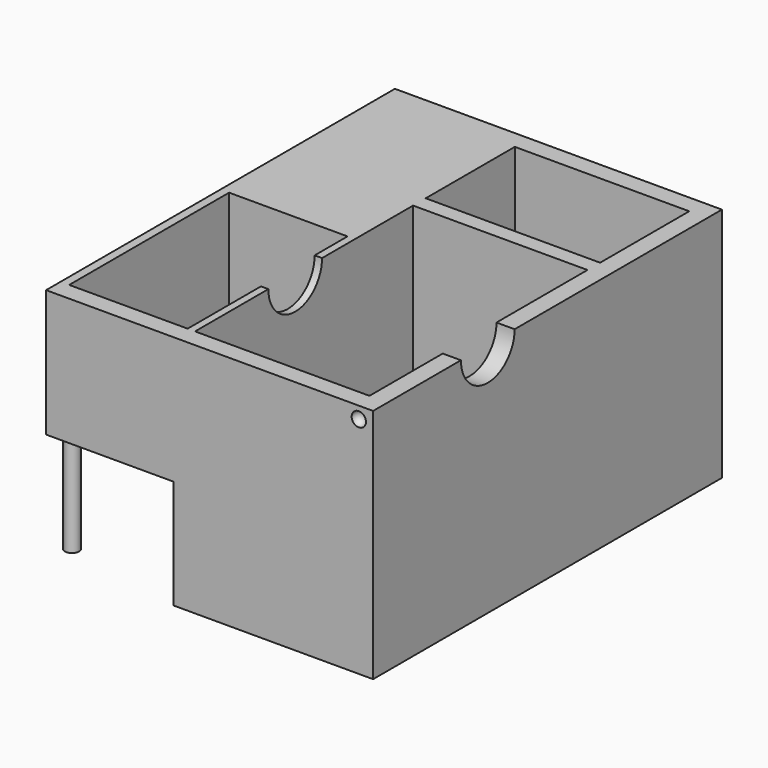
from build123d import *

# Parameters (mm, degrees)
F0_W      = 114.3
F0_H      = 152.4
F1_DEPTH  = 82.55
F2_W      = 60.96
F2_H      = 95.25
F3_DEPTH  = 76.2
F4_R      = 11.734963
F5_DEPTH  = 75.184
F6_W      = 60.96
F6_H      = 38.932147
F7_DEPTH  = 76.2
F8_W      = 88.9
F8_H      = 38.1
F9_DEPTH  = 44.45
F10_W     = 55.88
F10_H     = 33.02
F10_H_2   = 38.1
F11_DEPTH = 43.18
F12_R     = 2.5
F13_DEPTH = 33.02
F14_R     = 2.5
F14_R_2   = 2.3
F15_DEPTH = 2.54
F17_DEPTH = 45.72
F19_DEPTH = 45.72
F20_R     = 3.2
F21_DEPTH = 1.5875
F22_W     = 41.402
F22_H     = 69.85
F23_DEPTH = 40.64


with BuildPart() as f1:
    # F0 (on Top) → F1 (new body)
    with BuildSketch(Plane.XY):
        with Locations((-57.15, 76.2)):
            Rectangle(F0_W, F0_H)
    extrude(amount=-F1_DEPTH)

    # F2 (on face) → F3 (cut)
    with BuildSketch(Plane.XY):
        with Locations((-36.83, 53.975)):
            Rectangle(F2_W, F2_H)
    extrude(amount=-F3_DEPTH, mode=Mode.SUBTRACT)

    # F4 (on face) → F5 (cut)
    with BuildSketch(Plane.YZ):
        with Locations((50.100744, 0)):
            Circle(F4_R)
    extrude(amount=-F5_DEPTH, mode=Mode.SUBTRACT)

    # F6 (on face) → F7 (cut)
    with BuildSketch(Plane.XY):
        with Locations((-36.83, 126.583926)):
            Rectangle(F6_W, F6_H)
    extrude(amount=-F7_DEPTH, mode=Mode.SUBTRACT)

    # F8 (on face) → F9 (cut)
    with BuildSketch(Plane(origin=(-114.3, 0, 0), x_dir=(0, -1, 0), z_dir=(-1, 0, 0))):
        with Locations((-44.45, -63.5)):
            Rectangle(F8_W, F8_H)
    extrude(amount=-F9_DEPTH, mode=Mode.SUBTRACT)

    # F10 (on face) → F11 (cut)
    with BuildSketch(Plane(origin=(-114.3, 0, 0), x_dir=(0, -1, 0), z_dir=(-1, 0, 0))):
        with Locations((-121.190508, -19.685)):
            Rectangle(F10_W, F10_H)
        with Locations((-121.190508, -60.325)):
            Rectangle(F10_W, F10_H_2)
    extrude(amount=-F11_DEPTH, mode=Mode.SUBTRACT)

    # F12 (on face) → F13 (join)
    with BuildSketch(Plane(origin=(0, 0, -44.45), x_dir=(1, 0, 0), z_dir=(0, 0, -1))):
        with Locations((-109.26, -5.04)):
            Circle(F12_R)
    extrude(amount=F13_DEPTH)

    # F14 (on face) → F15 (join)
    with BuildSketch(Plane(origin=(0, 0, -77.47), x_dir=(1, 0, 0), z_dir=(0, 0, -1))):
        with Locations((-109.26, -5.04)):
            Circle(F14_R)
        with Locations((-109.26, -5.04)):
            Circle(F14_R_2, mode=Mode.SUBTRACT)
    extrude(amount=F15_DEPTH)

    # F16 (on face) → F17 (cut)
    with BuildSketch(Plane(origin=(-114.3, 0, 0), x_dir=(0, -1, 0), z_dir=(-1, 0, 0))):
        Polygon((-91.980508, -16.831285), (-91.980508, -18.101285), (-93.250508, -18.101285), (-93.250508, -20.641285), (-91.980508, -20.641285), (-91.980508, -21.911285), (-90.075508, -21.911285), (-90.075508, -16.831285), align=None)
    extrude(amount=-F17_DEPTH, mode=Mode.SUBTRACT)

    # F18 (on face) → F19 (cut)
    with BuildSketch(Plane(origin=(-114.3, 0, 0), x_dir=(0, -1, 0), z_dir=(-1, 0, 0))):
        Polygon((-91.973217, -57.956658), (-91.973217, -59.226658), (-93.250508, -59.226658), (-93.250508, -61.766658), (-91.973217, -61.766658), (-91.973217, -63.036658), (-90.068217, -63.036658), (-90.068217, -57.956658), align=None)
    extrude(amount=-F19_DEPTH, mode=Mode.SUBTRACT)

    # F20 (on face) → F21 (cut)
    with BuildSketch(Plane(origin=(-71.12, 0, 0), x_dir=(0, -1, 0), z_dir=(-1, 0, 0))):
        with Locations((-121.190508, -20.574)):
            Circle(F20_R)
        with Locations((-121.190508, -60.325)):
            Circle(F20_R)
    extrude(amount=-F21_DEPTH, mode=Mode.SUBTRACT)

    # F22 (on face) → F23 (cut)
    with BuildSketch(Plane.XY):
        with Locations((-90.600921, 41.275)):
            Rectangle(F22_W, F22_H)
    extrude(amount=-F23_DEPTH, mode=Mode.SUBTRACT)

    # F24 (on face) → F25 (revolve, cut)
    with BuildSketch(Plane.XZ):
        with BuildLine():
            Line((-7.48795, -4.186609), (-2.48795, -4.186609))
            ThreePointArc((-2.48795, -4.186609), (-4.98795, -1.686609), (-7.48795, -4.186609))
        make_face()
    revolve(axis=Axis((-4.98795, 0, -4.186609), (1, 0, 0)), mode=Mode.SUBTRACT)


solid = f1.part
